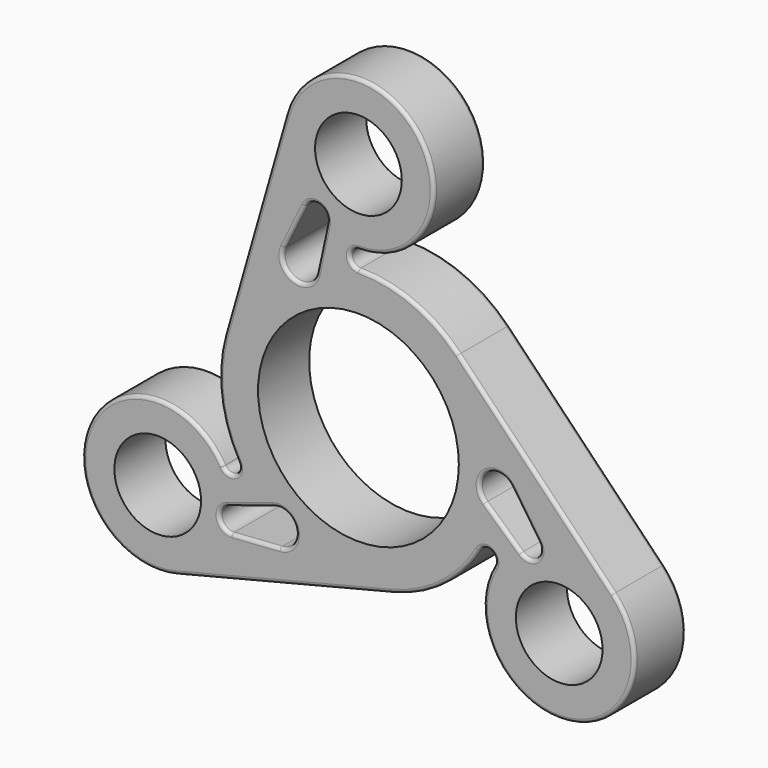
from build123d import *

# Parameters (mm, degrees)
F0_R     = 4.7498
F0_R_2   = 11
F1_DEPTH = 7
F2_R     = 0.381


with BuildPart() as f1:
    # F0 (on Front) → F1 (new body)
    with BuildSketch(Plane.XZ):
        with BuildLine():
            Line((-7.9367220869, 27.670125), (-14.6524100065, 4.191))
            ThreePointArc((-14.6524100065, 4.191), (-15.1257868492, -1.8623029271), (-13.1982271537, -7.62))
            ThreePointArc((-13.1982271537, -7.62), (-13.1870815727, -7.6387432167), (-13.1763678664, -7.657736601))
            ThreePointArc((-13.1763678664, -7.657736601), (-13.5360373276, -8.9419639618), (-14.827324783, -8.6085291962))
            ThreePointArc((-14.827324783, -8.6085291962), (-14.8378615547, -8.5906273256), (-14.8480055479, -8.5725))
            ThreePointArc((-14.8480055479, -8.5725), (-29.5968816167, -9.4770336191), (-19.9946701325, -20.70846545))
            Line((-19.9946701325, -20.70846545), (3.696692536, -14.7848592923))
            ThreePointArc((3.696692536, -14.7848592923), (9.175695069, -12.1681642001), (13.1982271537, -7.62))
            ThreePointArc((13.1982271537, -7.62), (14.5208322537, -7.2341807683), (14.8480055479, -8.5725))
            ThreePointArc((14.8480055479, -8.5725), (23.005792675, -20.8931345433), (27.9313922193, -6.96165955))
            Line((27.9313922193, -6.96165955), (10.9557174705, 10.5938592923))
            ThreePointArc((10.9557174705, 10.5938592923), (5.9500917802, 14.0304671272), (0, 15.24))
            ThreePointArc((0, 15.24), (-0.9525, 16.1925), (0, 17.145))
            ThreePointArc((0, 17.145), (6.5910889417, 30.3701681624), (-7.9367220869, 27.670125))
        make_face()
        with Locations((-21.9970452561, -12.7)):
            Circle(F0_R, mode=Mode.SUBTRACT)
        with BuildLine():
            Line((-8.6060616369, -14.3840703721), (-13.8820238271, -14.7595786538))
            ThreePointArc((-13.8820238271, -14.7595786538), (-15.2192028099, -13.7333015026), (-14.3596309556, -12.2833261061))
            Line((-14.3596309556, -12.2833261061), (-9.3224723296, -10.6696915506))
            ThreePointArc((-9.3224723296, -10.6696915506), (-6.870779669, -12.1230996647), (-8.6060616369, -14.3840703721))
        make_face(mode=Mode.SUBTRACT)
        Circle(F0_R_2, mode=Mode.SUBTRACT)
        with Locations((21.9970452561, -12.7)):
            Circle(F0_R, mode=Mode.SUBTRACT)
        with BuildLine():
            Line((16.7600011705, -0.261032818), (19.7231819769, -4.6423959633))
            ThreePointArc((19.7231819769, -4.6423959633), (19.502989384, -6.3135655074), (17.8174879287, -6.2941421434))
            Line((17.8174879287, -6.2941421434), (13.9014600981, -2.7386520882))
            ThreePointArc((13.9014600981, -2.7386520882), (13.9343021167, 0.1112800952), (16.7600011705, -0.261032818))
        make_face(mode=Mode.SUBTRACT)
        with BuildLine():
            ThreePointArc((-4.5789877686, 13.4083436388), (-7.0635224477, 12.0118195695), (-8.1539395336, 14.6451031901))
            Line((-8.1539395336, 14.6451031901), (-5.8411581498, 19.4019746171))
            ThreePointArc((-5.8411581498, 19.4019746171), (-4.2837865741, 20.04686701), (-3.4578569731, 18.5774682496))
            Line((-3.4578569731, 18.5774682496), (-4.5789877686, 13.4083436388))
        make_face(mode=Mode.SUBTRACT)
        with Locations((0, 25.4)):
            Circle(F0_R, mode=Mode.SUBTRACT)
        with BuildLine():
            ThreePointArc((-13.1763678664, -7.657736601), (-13.1870815727, -7.6387432167), (-13.1982271537, -7.62))
            ThreePointArc((-13.1982271537, -7.62), (-13.1873110083, -7.6388761195), (-13.1763678664, -7.657736601))
        make_face()
        with BuildLine():
            ThreePointArc((-14.8480055479, -8.5725), (-14.8378615547, -8.5906273256), (-14.827324783, -8.6085291962))
            ThreePointArc((-14.827324783, -8.6085291962), (-14.8376425011, -8.5905015888), (-14.8480055479, -8.5725))
        make_face()
    extrude(amount=F1_DEPTH)

    # F2
    f2_edges = [f1.edges().sort_by_distance(p)[0] for p in [
        (-15.123107, -7, -1.883943),
        (-11.294566, -7, 15.930562),
        (-7.063522, -7, 12.01182),
        (-4.018422, -7, 15.992906),
        (-6.997549, -7, 17.023539),
        (-4.283787, -7, 20.046867),
        (6.591089, -7, 30.370168),
        (-0.9525, -7, 16.1925),
        (5.950092, -7, 14.030467),
        (19.443555, -7, 1.8161),
        (14.520832, -7, -7.234181),
        (9.175695, -7, -12.168164),
        (13.934302, -7, 0.11128),
        (15.859474, -7, -4.516397),
        (18.241592, -7, -2.451714),
        (19.502989, -7, -6.313566),
        (-6.87078, -7, -12.1231),
        (-11.841052, -7, -11.476509),
        (-11.244043, -7, -14.571825),
        (-15.219203, -7, -13.733302),
        (-13.536037, -7, -8.941964),
        (-8.148989, -7, -17.746662),
        (6.591089, 0, 30.370168),
        (-11.294566, 0, 15.930562),
        (-15.123107, 0, -1.883943),
        (-13.536037, 0, -8.941964),
        (-29.588748, 0, -9.457921),
        (-8.148989, 0, -17.746662),
        (9.175695, 0, -12.168164),
        (14.520832, 0, -7.234181),
        (18.241592, 0, -2.451714),
        (13.934302, 0, 0.11128),
        (19.502989, 0, -6.313566),
        (-11.841052, 0, -11.476509),
        (-6.997549, 0, 17.023539),
    ]]
    fillet(f2_edges, radius=F2_R)


solid = f1.part
